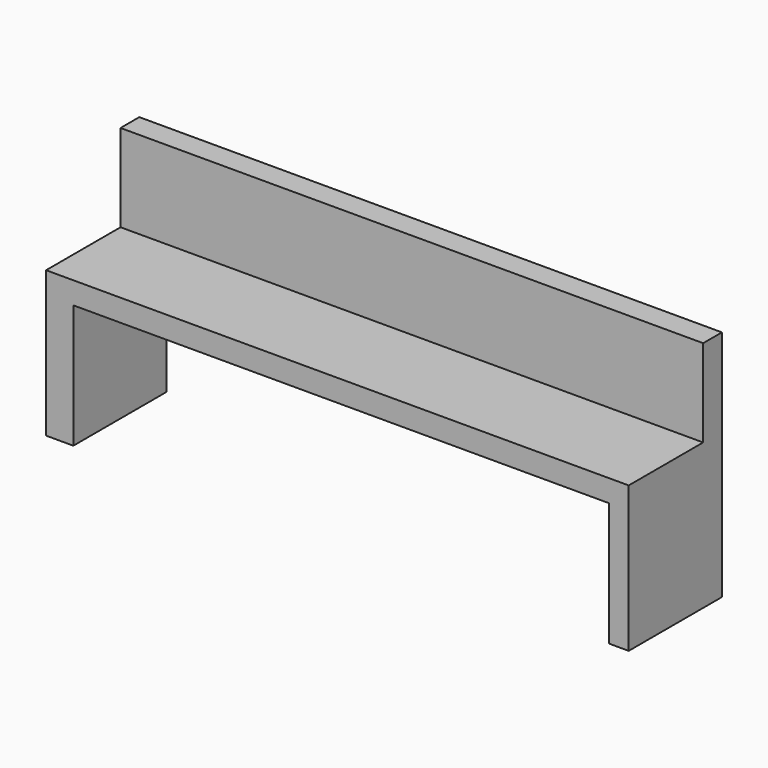
from build123d import *

# Parameters (mm, degrees)
F0_W     = 2000
F0_H     = 500
F1_DEPTH = 400
F2_W     = 1838.474586
F2_H     = 424.318999
F3_DEPTH = 400
F4_W     = 2000
F4_H     = 80.576949
F5_DEPTH = 300


with BuildPart() as f1:
    # F0 (on Front) → F1 (new body)
    with BuildSketch(Plane.XZ):
        with Locations((1000, 250)):
            Rectangle(F0_W, F0_H)
    extrude(amount=F1_DEPTH)

    # F2 (on face) → F3 (cut, through all)
    with BuildSketch(Plane.XZ.offset(400)):
        with Locations((1012.801014, 212.159499)):
            Rectangle(F2_W, F2_H)
    extrude(amount=-F3_DEPTH, mode=Mode.SUBTRACT)

    # F4 (on face) → F5 (join)
    with BuildSketch(Plane.XY.offset(500)):
        with Locations((1000, -40.288474)):
            Rectangle(F4_W, F4_H)
        with Locations((1000, -40.288474)):
            Rectangle(F4_W, F4_H)
    extrude(amount=F5_DEPTH)


solid = f1.part
